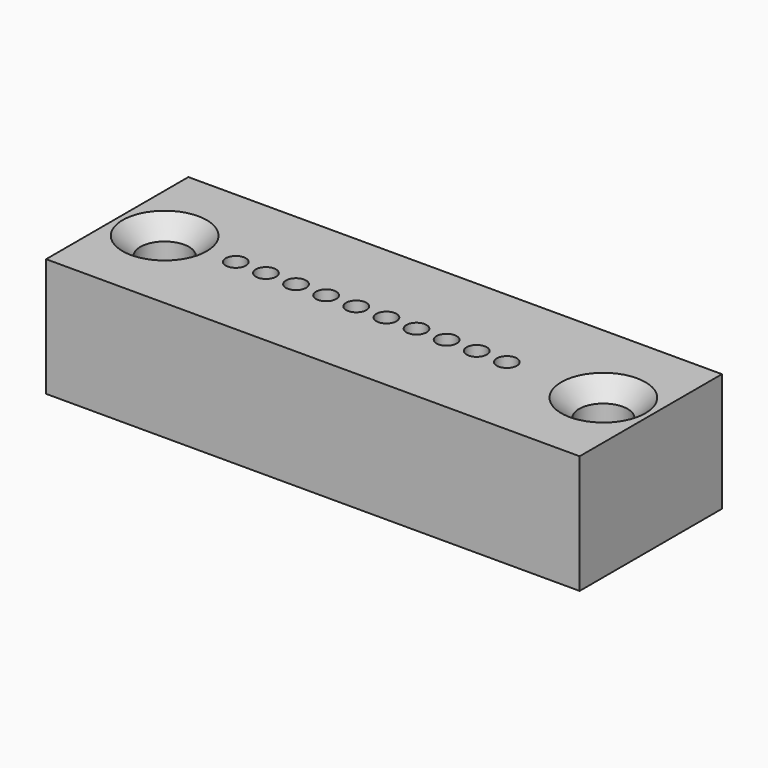
from build123d import *

# Parameters (mm, degrees)
F0_W     = 45
F0_H     = 15
F0_R     = 2.05
F0_R_2   = 0.85
F1_DEPTH = 10
F2_SIZE  = 1.5


with BuildPart() as f1:
    # F0 (on Top) → F1 (new body)
    with BuildSketch(Plane.XY):
        with Locations((12.5, 0)):
            Rectangle(F0_W, F0_H)
        with Locations((-6, 0)):
            Circle(F0_R, mode=Mode.SUBTRACT)
        Circle(F0_R_2, mode=Mode.SUBTRACT)
        with Locations((2.54, 0)):
            Circle(F0_R_2, mode=Mode.SUBTRACT)
        with Locations((5.08, 0)):
            Circle(F0_R_2, mode=Mode.SUBTRACT)
        with Locations((7.62, 0)):
            Circle(F0_R_2, mode=Mode.SUBTRACT)
        with Locations((10.16, 0)):
            Circle(F0_R_2, mode=Mode.SUBTRACT)
        with Locations((12.7, 0)):
            Circle(F0_R_2, mode=Mode.SUBTRACT)
        with Locations((15.24, 0)):
            Circle(F0_R_2, mode=Mode.SUBTRACT)
        with Locations((17.78, 0)):
            Circle(F0_R_2, mode=Mode.SUBTRACT)
        with Locations((20.32, 0)):
            Circle(F0_R_2, mode=Mode.SUBTRACT)
        with Locations((22.86, 0)):
            Circle(F0_R_2, mode=Mode.SUBTRACT)
        with Locations((31, 0)):
            Circle(F0_R, mode=Mode.SUBTRACT)
    extrude(amount=F1_DEPTH)

    # F2
    f2_edges = [f1.edges().sort_by_distance(p)[0] for p in [
        (-8.05, 0, 10),
        (28.95, 0, 10),
    ]]
    chamfer(f2_edges, length=F2_SIZE)


solid = f1.part
